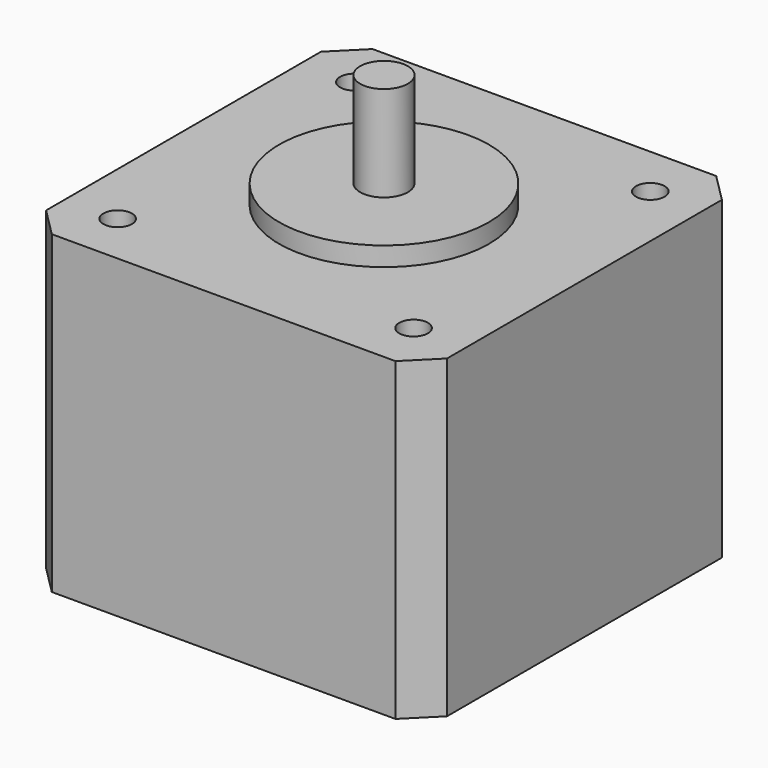
from build123d import *

# Parameters (mm, degrees)
F0_W     = 42
F0_H     = 42
F1_DEPTH = 33
F2_R     = 11
F3_DEPTH = 2
F4_R     = 2.5
F5_DEPTH = 10
F6_R     = 1.5
F7_DEPTH = 33.001
F8_SIZE  = 3


with BuildPart() as f1:
    # F0 (on Top) → F1 (new body)
    with BuildSketch(Plane.XY):
        Rectangle(F0_W, F0_H)
    extrude(amount=F1_DEPTH)

    # F2 (on face) → F3 (join)
    with BuildSketch(Plane.XY.offset(33)):
        Circle(F2_R)
    extrude(amount=F3_DEPTH)

    # F4 (on face) → F5 (join)
    with BuildSketch(Plane.XY.offset(35)):
        Circle(F4_R)
    extrude(amount=F5_DEPTH)

    # F6 (on face) → F7 (cut, through all)
    with BuildSketch(Plane.XY.offset(33)):
        with Locations((-15.5, 15.5)):
            Circle(F6_R)
        with Locations((15.5, 15.5)):
            Circle(F6_R)
        with Locations((15.5, -15.5)):
            Circle(F6_R)
        with Locations((-15.5, -15.5)):
            Circle(F6_R)
    extrude(amount=-F7_DEPTH, mode=Mode.SUBTRACT)

    # F8
    f8_edges = [f1.edges().sort_by_distance(p)[0] for p in [
        (-21, 21, 16.5),
        (21, 21, 16.5),
        (21, -21, 16.5),
        (-21, -21, 16.5),
    ]]
    chamfer(f8_edges, length=F8_SIZE)


solid = f1.part
